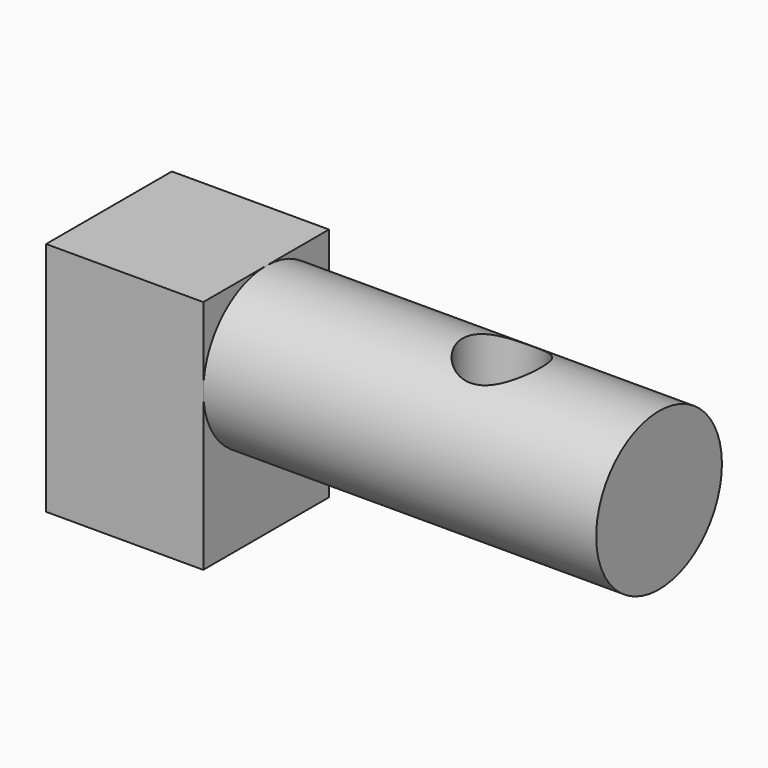
from build123d import *

# Parameters (mm, degrees)
F0_W     = 20
F0_H     = 30
F1_DEPTH = 20
F2_R     = 10
F3_DEPTH = 50
F4_R     = 5
F5_DEPTH = 30.001


with BuildPart() as f1:
    # F0 (on Front) → F1 (new body)
    with BuildSketch(Plane.XZ):
        Rectangle(F0_W, F0_H)
    extrude(amount=F1_DEPTH)

    # F2 (on face) → F3 (join)
    with BuildSketch(Plane.YZ.offset(10)):
        with Locations((-10, 5)):
            Circle(F2_R)
    extrude(amount=F3_DEPTH)

    # F4 (on face) → F5 (cut, through all)
    with BuildSketch(Plane(origin=(0, 0, -15), x_dir=(1, 0, 0), z_dir=(0, 0, -1))):
        with Locations((40, 10)):
            Circle(F4_R)
    extrude(amount=-F5_DEPTH, mode=Mode.SUBTRACT)


solid = f1.part
